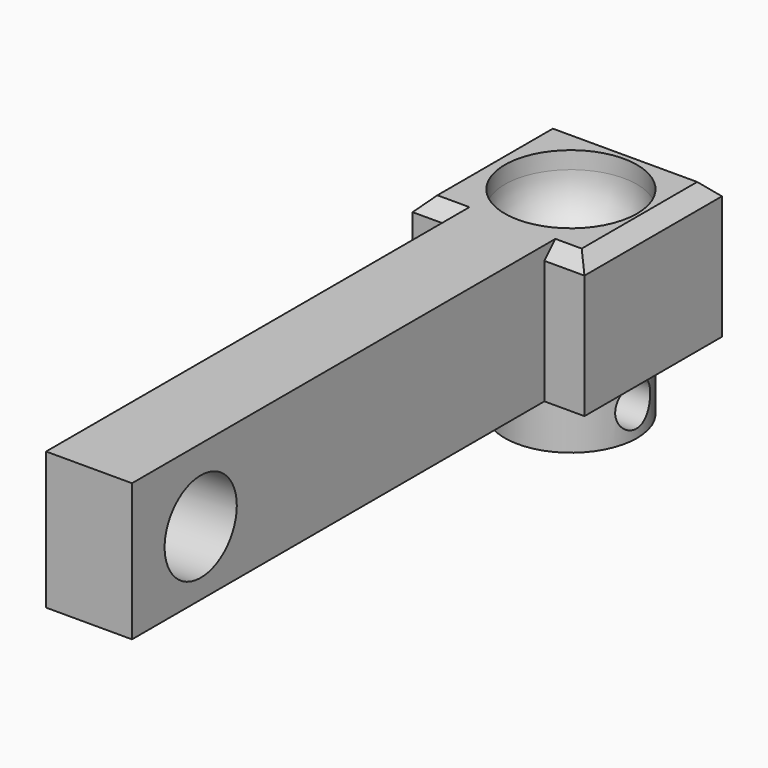
from build123d import *

# Parameters (mm, degrees)
F0_R     = 9.7732259702
F0_W     = 12.7
F0_H     = 76.2
F1_DEPTH = 20.32
F2_DEPTH = 10.16
F3_R     = 7.62
F5_D     = 13.335
F6_SIZE  = 2.032
F7_DEPTH = 8.89
F9_D     = 6.35


with BuildPart() as f1:
    # F0 (on Top) → F1 (new body)
    with BuildSketch(Plane.XY):
        Polygon((-6.7755430937, 63.4059129299), (0, 63.4059129299), (12.7, 63.4059129299), (18.6244569063, 63.4059129299), (18.6244569063, 88.8059129299), (-6.7755430937, 88.8059129299), align=None)
        with Locations((6.35, 76.2461349368)):
            Circle(F0_R, mode=Mode.SUBTRACT)
        with Locations((6.35, 25.3059129299)):
            Rectangle(F0_W, F0_H)
    extrude(amount=F1_DEPTH)

    # F0 (on Top) → F2 (join)
    with BuildSketch(Plane.XY):
        with Locations((6.35, 76.2461349368)):
            Circle(F0_R)
    extrude(amount=F2_DEPTH)

    # F3
    f3_edges = [f1.edges().sort_by_distance(p)[0] for p in [
        (-3.423226, 76.246135, 10.16),
    ]]
    fillet(f3_edges, radius=F3_R)

    # F5 (through all)
    with Locations(Plane(origin=(0, 0, 0), x_dir=(0, -1, 0), z_dir=(-1, 0, 0))):
        with Locations((0.0940870701, 9.525)):
            Hole(F5_D / 2)

    # F6
    f6_edges = [f1.edges().sort_by_distance(p)[0] for p in [
        (-6.775543, 76.105913, 20.32),
        (18.624457, 76.105913, 20.32),
        (-3.387772, 63.405913, 20.32),
        (15.662228, 63.405913, 20.32),
        (5.924457, 88.805913, 20.32),
    ]]
    chamfer(f6_edges, length=F6_SIZE)

    # F0 (on Top) → F7 (join)
    with BuildSketch(Plane.XY):
        with Locations((6.35, 76.2461349368)):
            Circle(F0_R)
    extrude(amount=-F7_DEPTH)

    # F9 (through all)
    with Locations(Plane.YZ.offset(18.6244569063)):
        with Locations((76.1059129299, -4.445)):
            Hole(F9_D / 2)


solid = f1.part
